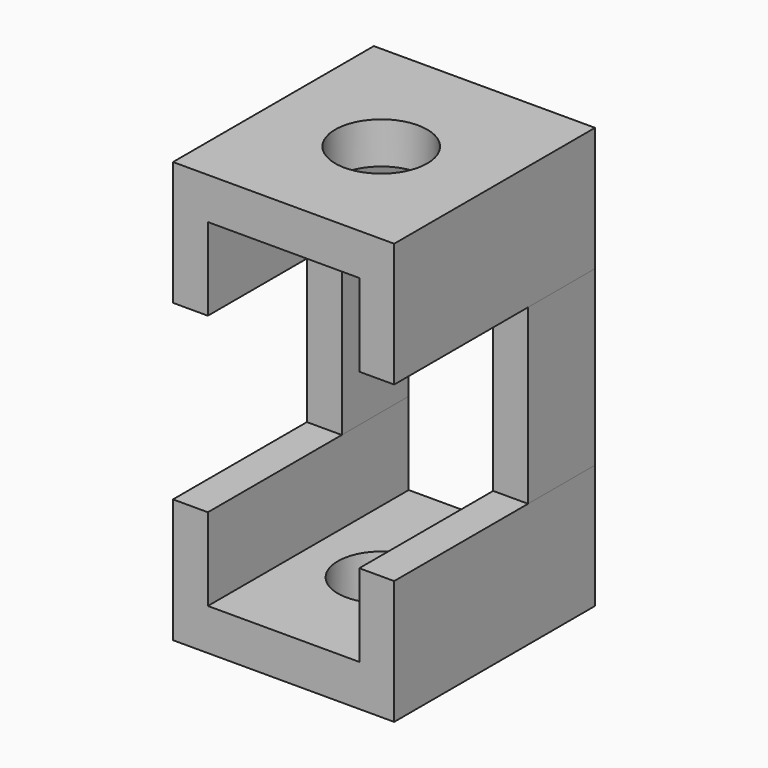
from build123d import *

# Parameters (mm, degrees)
F1_DEPTH = 76.2
F2_DEPTH = 76.2
F0_W     = 10.5856359005
F0_H     = 52.5062903762
F3_DEPTH = 25.4
F4_DEPTH = 25.4
F6_START = -13.1920957938
F5_R     = 13.2891198287
F6_DEPTH = 113.8079042062
F7_R     = 13.9509416412
F8_DEPTH = 127


with BuildPart() as f1:
    # F0 (on Front) → F1 (new body)
    with BuildSketch(Plane.XZ):
        Polygon((33.5652679205, 26.2531451881), (33.5652679205, 63.8882219791), (-33.5652679205, 63.8882219791), (-33.5652679205, 26.2531451881), (-22.97963202, 26.2531451881), (-22.97963202, 51.2903295457), (22.97963202, 51.2903295457), (22.97963202, 26.2531451881), align=None)
    extrude(amount=F1_DEPTH)

    # F7 (on face) → F8 (cut)
    with BuildSketch(Plane.XY.offset(63.8882219791)):
        with Locations((0, -39.1544625163)):
            Circle(F7_R)
    extrude(amount=-F8_DEPTH, mode=Mode.SUBTRACT)


with BuildPart() as f2:
    # F0 (on Front) → F2 (new body)
    with BuildSketch(Plane.XZ):
        Polygon((33.5652679205, -63.8882219791), (33.5652679205, -26.2531451881), (22.97963202, -26.2531451881), (22.97963202, -51.2903295457), (-22.97963202, -51.2903295457), (-22.97963202, -26.2531451881), (-33.5652679205, -26.2531451881), (-33.5652679205, -63.8882219791), align=None)
    extrude(amount=F2_DEPTH)

    # F5 (on Top) → F6 (cut)
    with BuildSketch(Plane.XY.offset(F6_START)):
        with Locations((0, -39.0005894005)):
            Circle(F5_R)
    extrude(amount=-F6_DEPTH, mode=Mode.SUBTRACT)


with BuildPart() as f3:
    # F0 (on Front) → F3 (new body)
    with BuildSketch(Plane.XZ):
        with Locations((-28.2724499702, 0)):
            Rectangle(F0_W, F0_H)
    extrude(amount=F3_DEPTH)


with BuildPart() as f4:
    # F0 (on Front) → F4 (new body)
    with BuildSketch(Plane.XZ):
        with Locations((28.2724499702, 0)):
            Rectangle(F0_W, F0_H)
    extrude(amount=F4_DEPTH)


solid = Compound([f1.part, f2.part, f3.part, f4.part])
